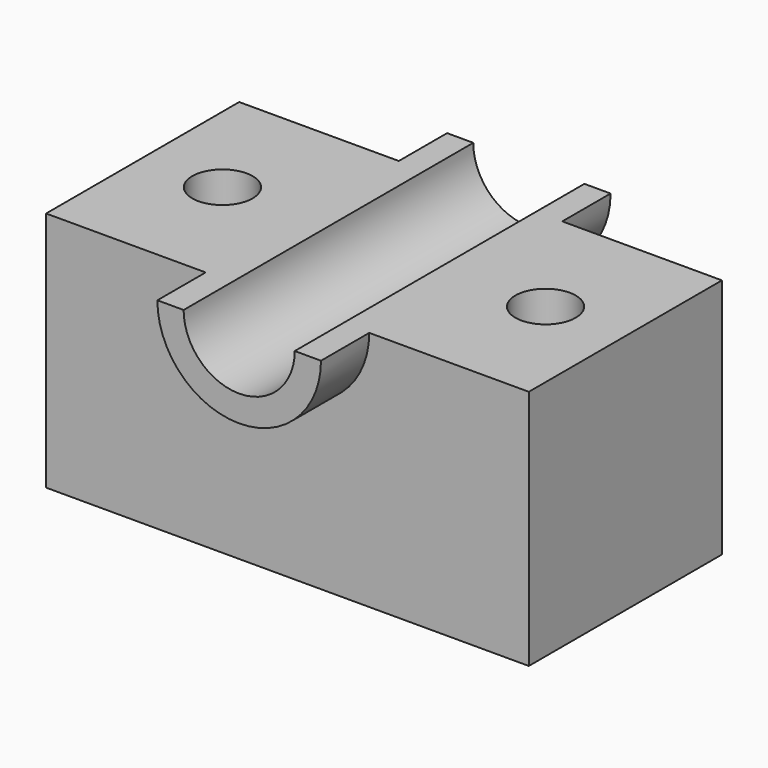
from build123d import *

# Parameters (mm, degrees)
F0_W      = 101.6
F0_H      = 50.8
F1_DEPTH  = 50.8
F3_DEPTH  = 59.69
F4_DEPTH  = 12.7
F6_DEPTH  = 12.7
F7_R      = 6.35
F8_DEPTH  = 67.818
F9_R      = 6.35
F10_DEPTH = 76.2


with BuildPart() as f1:
    # F0 (on Top) → F1 (new body)
    with BuildSketch(Plane.XY):
        with Locations((-12.215394, -1.520658)):
            Rectangle(F0_W, F0_H)
    extrude(amount=F1_DEPTH)

    # F2 (on face) → F3 (cut)
    with BuildSketch(Plane.XZ.offset(26.920658)):
        with BuildLine():
            Line((-0.523097, 50.8), (-23.907691, 50.8))
            ThreePointArc((-23.907691, 50.8), (-12.215394, 39.107703), (-0.523097, 50.8))
        make_face()
    extrude(amount=-F3_DEPTH, mode=Mode.SUBTRACT)

    # F2 (on face) → F4 (join)
    with BuildSketch(Plane.XZ.offset(26.920658)):
        with BuildLine():
            Line((-23.907691, 50.8), (-29.430878, 50.8))
            ThreePointArc((-29.430878, 50.8), (-12.215394, 33.584516), (5.00009, 50.8))
            Line((5.00009, 50.8), (-0.523097, 50.8))
            ThreePointArc((-0.523097, 50.8), (-12.215394, 39.107703), (-23.907691, 50.8))
        make_face()
    extrude(amount=F4_DEPTH)

    # F5 (on face) → F6 (join)
    with BuildSketch(Plane(origin=(0, 23.879342, 0), x_dir=(-1, 0, 0), z_dir=(0, 1, 0))):
        with BuildLine():
            Line((0.523097, 50.8), (-4.988703, 50.8))
            ThreePointArc((-4.988703, 50.8), (12.215394, 33.595903), (29.419491, 50.8))
            Line((29.419491, 50.8), (23.907691, 50.8))
            ThreePointArc((23.907691, 50.8), (12.215394, 39.107703), (0.523097, 50.8))
        make_face()
    extrude(amount=F6_DEPTH)

    # F7 (on face) → F8 (cut)
    with BuildSketch(Plane.XY.offset(50.8)):
        with Locations((-46.217443, -1.520658)):
            Circle(F7_R)
    extrude(amount=-F8_DEPTH, mode=Mode.SUBTRACT)

    # F9 (on face) → F10 (cut)
    with BuildSketch(Plane.XY.offset(50.8)):
        with Locations((21.786655, -1.520658)):
            Circle(F9_R)
    extrude(amount=-F10_DEPTH, mode=Mode.SUBTRACT)


solid = f1.part
